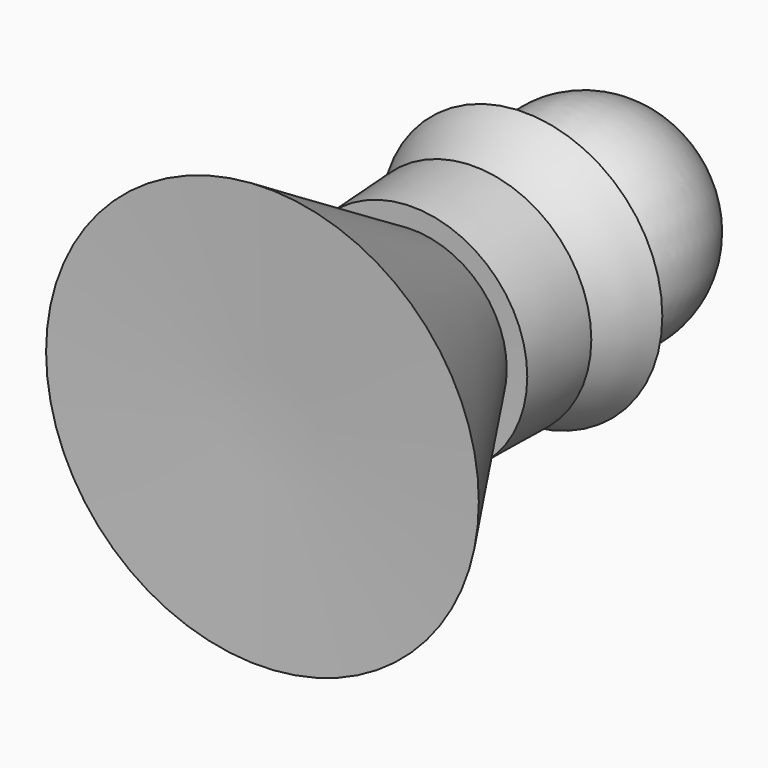
from build123d import *


with BuildPart() as f1:
    # F0 (on Top) → F1 (revolve)
    with BuildSketch(Plane.XY):
        with BuildLine():
            Line((12.6839522272, 38.5081134737), (3.8605679486, 38.5081134737))
            ThreePointArc((3.8605679486, 38.5081134737), (9.5041549163, 48.0122683899), (0, 53.6558553576))
            Line((0, 53.6558553576), (1.3687721221, 8.7601393461))
            Line((1.3687721221, 8.7601393461), (20.1665721834, 8.7601393461))
            Line((20.1665721834, 8.7601393461), (9.2163970694, 25.5504064262))
            Line((9.2163970694, 25.5504064262), (11.0414242372, 25.5504064262))
            Line((11.0414242372, 25.5504064262), (11.0414242372, 32.6680205762))
            Line((11.0414242372, 32.6680205762), (7.9928714119, 32.6680205762))
            ThreePointArc((7.9928714119, 32.6680205762), (10.7428781159, 35.2631776582), (12.6839522272, 38.5081134737))
        make_face()
    revolve(axis=Axis((0.684386061, 31.2079973519, 0), (0.030473652, -0.9995355704, 0)))


solid = f1.part
